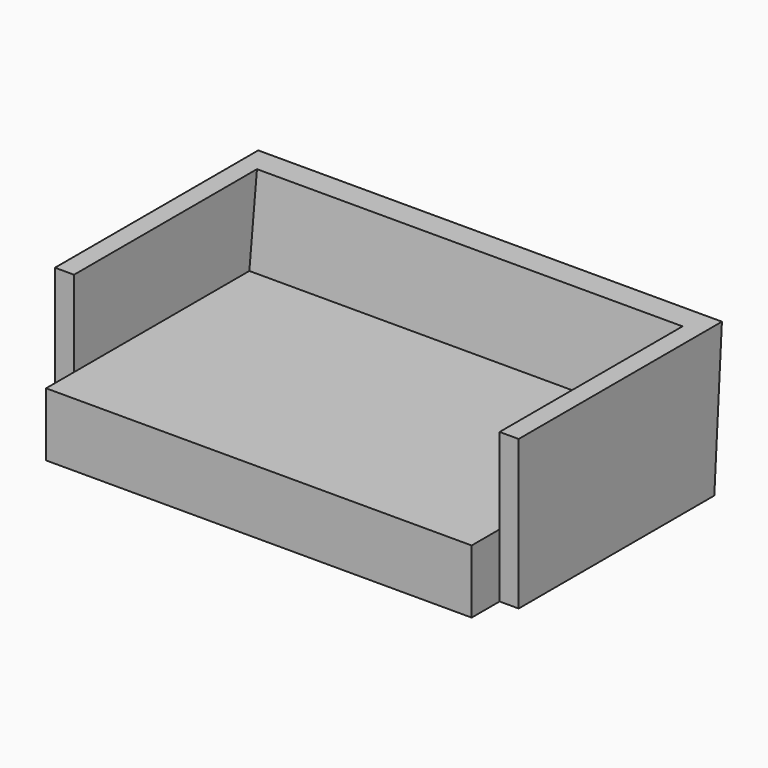
from build123d import *

# Parameters (mm, degrees)
F1_DEPTH = 927.1
F3_DEPTH = 850.9
F4_W     = 139.7
F4_H     = 254
F5_DEPTH = 850.9


with BuildPart() as f1:
    # F0 (on Right) → F1 (new body, symmetric)
    with BuildSketch(Plane.YZ):
        Polygon((-658.550496, 596.9), (-658.550496, 0), (319.349504, 0), (357.449504, 596.9), align=None)
    extrude(amount=F1_DEPTH, both=True)

    # F2 (on Right) → F3 (cut, symmetric)
    with BuildSketch(Plane.YZ):
        Polygon((-658.550496, 596.9), (-658.550496, 254), (217.749504, 254), (255.849504, 596.9), align=None)
    extrude(amount=F3_DEPTH, both=True, mode=Mode.SUBTRACT)

    # F4 (on Right) → F5 (join, symmetric)
    with BuildSketch(Plane.YZ):
        with Locations((-728.400496, 127)):
            Rectangle(F4_W, F4_H)
    extrude(amount=F5_DEPTH, both=True)


solid = f1.part
